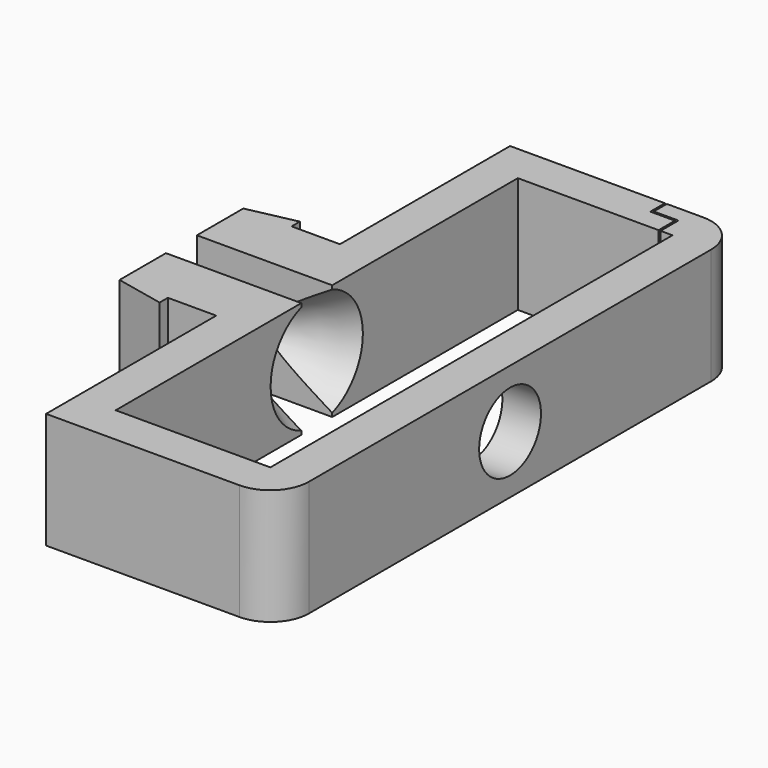
from build123d import *

# Parameters (mm, degrees)
F1_DEPTH  = 6
F2_R      = 1.25
F3_DEPTH  = 25
F4_R      = 2
F5_DEPTH  = 25
F6_R      = 2
F7_SIZE2  = 3
F7_SIZE   = 1.7320508076
F8_SIZE2  = 3
F8_SIZE   = 1.7320508076
F10_DEPTH = 25


with BuildPart() as f1:
    # F0 (on Top) → F1 (new body)
    with BuildSketch(Plane.XY):
        Polygon((5, 8), (2.5, 8), (2.5, 8.5332244635), (0, 8), (0, 5), (5, 5), (7, 5), (7, 17), (15, 17), (15, 4), (15, -9), (7, -9), (7, 3), (5, 3), (0, 3), (0, 0), (2.5, -0.5332244635), (2.5, 0), (5, 0), (5, -11), (6.961800158, -11), (17, -11), (17, 4), (17, 19), (6.961800158, 19), (5, 19), align=None)
    extrude(amount=F1_DEPTH)

    # F2 (on face) → F3 (cut)
    with BuildSketch(Plane(origin=(15, 0, 0), x_dir=(0, -1, 0), z_dir=(-1, 0, 0))):
        with Locations((-4, 3)):
            Circle(F2_R)
    extrude(amount=F3_DEPTH, mode=Mode.SUBTRACT)

    # F4 (on face) → F5 (cut)
    with BuildSketch(Plane(origin=(15, 0, 0), x_dir=(0, -1, 0), z_dir=(-1, 0, 0))):
        with Locations((-4, 3)):
            Circle(F4_R)
    extrude(amount=-F5_DEPTH, mode=Mode.SUBTRACT)

    # F6
    f6_edges = [f1.edges().sort_by_distance(p)[0] for p in [
        (17, 19, 3),
        (17, -11, 3),
    ]]
    fillet(f6_edges, radius=F6_R)

    # F7
    f7_edges = [f1.edges().sort_by_distance(p)[0] for p in [
        (7, 5.25, 3),
    ]]
    f7_side = f1.faces().sort_by_distance((7, 11.021006, 3))[0]
    chamfer(f7_edges, length=F7_SIZE, length2=F7_SIZE2, reference=f7_side)

    # F8
    f8_edges = [f1.edges().sort_by_distance(p)[0] for p in [
        (7, 2.75, 3),
    ]]
    f8_side = f1.faces().sort_by_distance((7, -3.021006, 3))[0]
    chamfer(f8_edges, length=F8_SIZE, length2=F8_SIZE2, reference=f8_side)

    # F9 (on face) → F10 (cut)
    with BuildSketch(Plane.XY.offset(6)):
        Polygon((13.1088524893, 19), (13.0088524893, 19), (13.0088524893, 18.0567633361), (14.2809776589, 18.0567633361), (14.2809776589, 17), (14.3809776589, 17), (14.3809776589, 18.1567633361), (13.1088524893, 18.1567633361), align=None)
    extrude(amount=-F10_DEPTH, mode=Mode.SUBTRACT)


solid = f1.part
